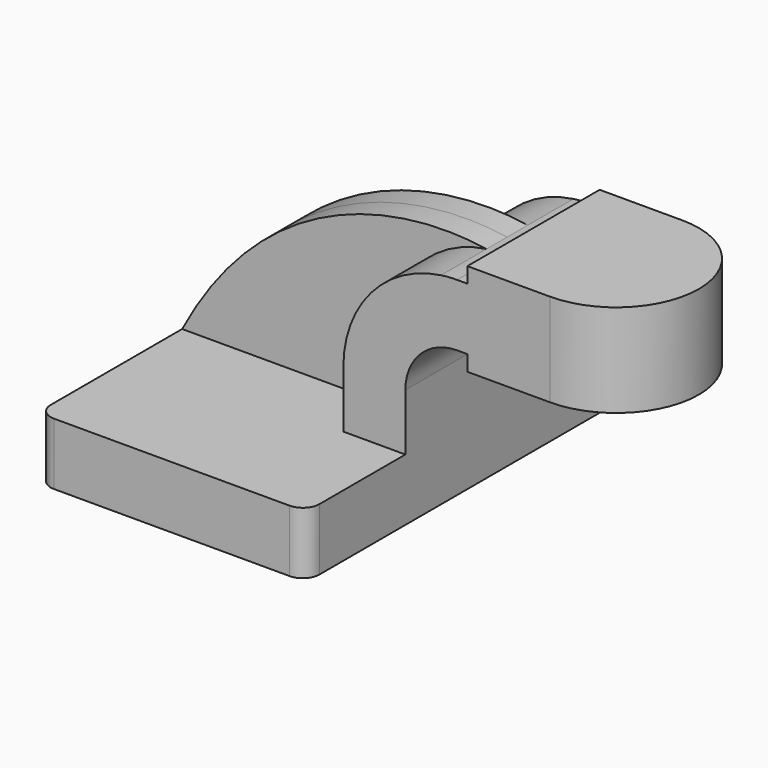
from build123d import *

# Parameters (mm, degrees)
F1_DEPTH = 63.5
F0_W     = 25.4
F0_H     = 19.05
F0_H_2   = 4.7498
F0_H_3   = 4.7752
F2_DEPTH = 25.4
F3_DEPTH = 7.9375
F5_R     = 5.08


with BuildPart() as f1:
    # F0 (on Front) → F1 (new body, symmetric)
    with BuildSketch(Plane.XZ):
        Polygon((22.225, 9.525), (-41.275, 9.525), (-41.275, -9.525), (41.275, -9.525), (41.275, 9.525), align=None)
    extrude(amount=F1_DEPTH, both=True)

    # F0 (on Front) → F2 (join, symmetric)
    with BuildSketch(Plane.XZ):
        with BuildLine():
            Line((22.225, 27.0002), (22.225, 9.525))
            Line((22.225, 9.525), (41.275, 9.525))
            Line((41.275, 9.525), (41.275, 27.0002))
            ThreePointArc((41.275, 27.0002), (45.9246798487, 38.2255201513), (57.15, 42.8752))
            Line((57.15, 42.8752), (60.325, 42.8752))
            Line((60.325, 42.8752), (60.325, 61.9252))
            Line((60.325, 61.9252), (57.15, 61.9252))
            ThreePointArc((57.15, 61.9252), (54.6822905468, 61.8379099571), (52.2269164674, 61.5764761663))
            ThreePointArc((52.2269164674, 61.5764761663), (30.77108496, 49.8892468633), (22.225, 27.0002))
        make_face()
        with Locations((73.025, 52.4002)):
            Rectangle(F0_W, F0_H)
        with Locations((73.025, 64.3001)):
            Rectangle(F0_W, F0_H_2)
        with Locations((73.025, 40.4876)):
            Rectangle(F0_W, F0_H_3)
    extrude(amount=F2_DEPTH, both=True)

    # F0 (on Front) → F3 (join, symmetric)
    with BuildSketch(Plane.XZ):
        with BuildLine():
            add(Edge.make_bspline(
                [(-41.275, 9.525), (-14.7710740566, 59.7766935825), (28.1573608518, 65.3158426285), (52.2269164674, 61.5764761663)],
                knots=[0, 0, 0, 0, 107.0138521602, 107.0138521602, 107.0138521602, 107.0138521602], degree=3))
            Line((-41.275, 9.525), (22.225, 9.525))
            Line((22.225, 9.525), (22.225, 27.0002))
            ThreePointArc((22.225, 27.0002), (30.77108496, 49.8892468633), (52.2269164674, 61.5764761663))
        make_face()
    extrude(amount=F3_DEPTH, both=True)

    # F0 (on Front) → F4 (revolve)
    with BuildSketch(Plane.XZ):
        Polygon((85.725, 66.675), (85.725, 61.9252), (85.725, 42.8752), (85.725, 38.1), (111.125, 38.1), (111.125, 66.675), align=None)
    revolve(axis=Axis((85.725, 0, 52.3875), (0, 0, 1)))

    # F5
    f5_edges = [f1.edges().sort_by_distance(p)[0] for p in [
        (41.275, 63.5, 0),
        (41.275, -63.5, 0),
        (-41.275, -63.5, 0),
        (-41.275, 63.5, 0),
    ]]
    fillet(f5_edges, radius=F5_R)


solid = f1.part
